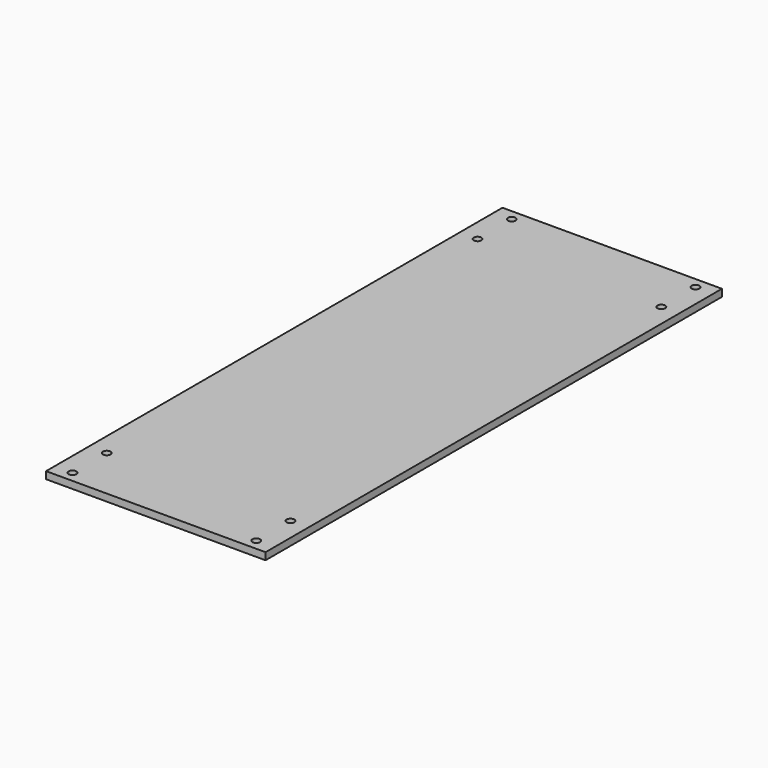
from build123d import *

# Parameters (mm, degrees)
F0_W     = 97.7011
F0_H     = 254
F0_R     = 1.7272
F1_DEPTH = 3.175


with BuildPart() as f1:
    # F0 (on Top) → F1 (new body)
    with BuildSketch(Plane.XY):
        Rectangle(F0_W, F0_H)
        with Locations((-40.91305, -122.2375)):
            Circle(F0_R, mode=Mode.SUBTRACT)
        with Locations((-40.91305, -103.1875)):
            Circle(F0_R, mode=Mode.SUBTRACT)
        with Locations((40.91305, -122.2375)):
            Circle(F0_R, mode=Mode.SUBTRACT)
        with Locations((40.91305, -103.1875)):
            Circle(F0_R, mode=Mode.SUBTRACT)
        with Locations((-40.91305, 103.1875)):
            Circle(F0_R, mode=Mode.SUBTRACT)
        with Locations((-40.91305, 122.2375)):
            Circle(F0_R, mode=Mode.SUBTRACT)
        with Locations((40.91305, 103.1875)):
            Circle(F0_R, mode=Mode.SUBTRACT)
        with Locations((40.91305, 122.2375)):
            Circle(F0_R, mode=Mode.SUBTRACT)
    extrude(amount=F1_DEPTH)


solid = f1.part
